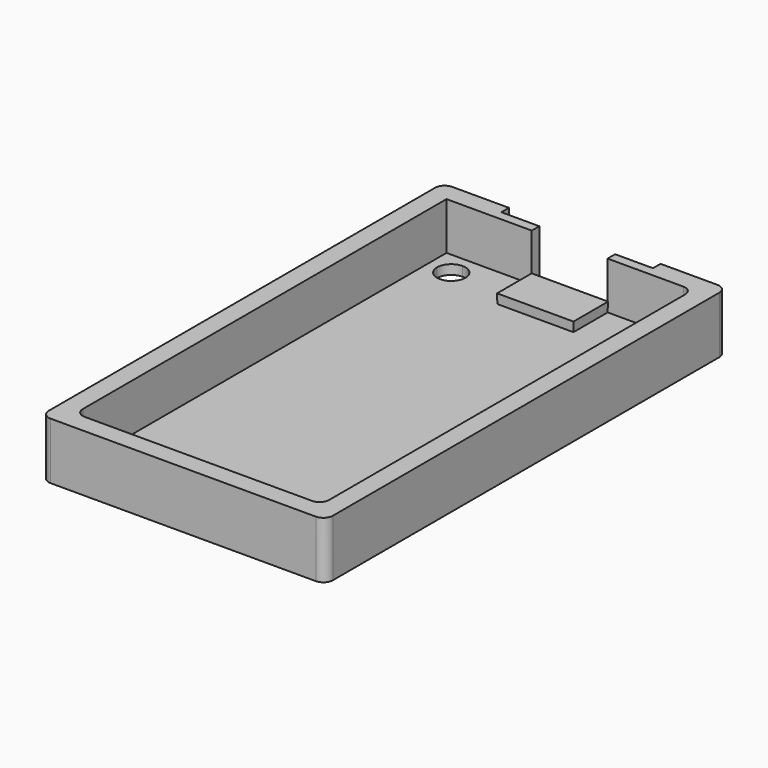
from build123d import *

# Parameters (mm, degrees)
F0_W     = 4
F0_H     = 1
F1_DEPTH = 1
F2_DEPTH = 6
F3_DEPTH = 2
F3_TAPER = -1


with BuildPart() as f1:
    # F0 (on Top) → F1 (new body)
    with BuildSketch(Plane.XY):
        with BuildLine():
            Line((-13, 24.5), (-12, 24.5))
            Line((-12, 24.5), (-10.5, 24.5))
            Line((-10.5, 24.5), (-8, 24.5))
            Line((-8, 24.5), (-8, 25.5))
            Line((-8, 25.5), (-8, 26.5))
            Line((-8, 26.5), (-14, 26.5))
            ThreePointArc((-14, 26.5), (-14.7071067812, 26.2071067812), (-15, 25.5))
            Line((-15, 25.5), (-15, -25.5))
            ThreePointArc((-15, -25.5), (-14.7071067812, -26.2071067812), (-14, -26.5))
            Line((-14, -26.5), (14, -26.5))
            ThreePointArc((14, -26.5), (14.7071067812, -26.2071067812), (15, -25.5))
            Line((15, -25.5), (15, 25.5))
            ThreePointArc((15, 25.5), (14.7071067812, 26.2071067812), (14, 26.5))
            Line((14, 26.5), (8, 26.5))
            Line((8, 26.5), (8, 25.5))
            Line((8, 25.5), (8, 24.5))
            Line((8, 24.5), (10.5, 24.5))
            Line((10.5, 24.5), (12, 24.5))
            ThreePointArc((12, 24.5), (12.7071067812, 24.2071067812), (13, 23.5))
            Line((13, 23.5), (13, 22))
            Line((13, 22), (13, -22))
            Line((13, -22), (13, -23.5))
            ThreePointArc((13, -23.5), (12.7071067812, -24.2071067812), (12, -24.5))
            Line((12, -24.5), (10.5, -24.5))
            Line((10.5, -24.5), (-10.5, -24.5))
            Line((-10.5, -24.5), (-12, -24.5))
            ThreePointArc((-12, -24.5), (-12.7071067812, -24.2071067812), (-13, -23.5))
            Line((-13, -23.5), (-13, -22))
            Line((-13, -22), (-13, 22))
            Line((-13, 22), (-13, 23.5))
            Line((-13, 23.5), (-13, 24.5))
        make_face()
        with Locations((6, 25)):
            Rectangle(F0_W, F0_H)
        with Locations((2, 25)):
            Rectangle(F0_W, F0_H)
        with Locations((-2, 25)):
            Rectangle(F0_W, F0_H)
        with Locations((-6, 25)):
            Rectangle(F0_W, F0_H)
        Polygon((0, 24.5), (-4, 24.5), (-4, 20), (4, 20), (4, 24.5), align=None)
        with BuildLine():
            Line((-12, -22), (-13, -22))
            Line((-13, -22), (-13, -23.5))
            ThreePointArc((-13, -23.5), (-12.7071067812, -24.2071067812), (-12, -24.5))
            Line((-12, -24.5), (-10.5, -24.5))
            Line((-10.5, -24.5), (-10.5, -23.5))
            ThreePointArc((-10.5, -23.5), (-11.5606601718, -23.0606601718), (-12, -22))
        make_face()
        with BuildLine():
            Line((-8, 24.5), (-10.5, 24.5))
            Line((-10.5, 24.5), (-10.5, 23.5))
            ThreePointArc((-10.5, 23.5), (-9.4393398282, 23.0606601718), (-9, 22))
            ThreePointArc((-9, 22), (-10.5, 20.5), (-12, 22))
            Line((-12, 22), (-13, 22))
            Line((-13, 22), (-13, -22))
            Line((-13, -22), (-12, -22))
            ThreePointArc((-12, -22), (-10.5, -20.5), (-9, -22))
            ThreePointArc((-9, -22), (-9.4393398282, -23.0606601718), (-10.5, -23.5))
            Line((-10.5, -23.5), (-10.5, -24.5))
            Line((-10.5, -24.5), (10.5, -24.5))
            Line((10.5, -24.5), (10.5, -23.5))
            ThreePointArc((10.5, -23.5), (9.4393398282, -20.9393398282), (12, -22))
            Line((12, -22), (13, -22))
            Line((13, -22), (13, 22))
            Line((13, 22), (12, 22))
            ThreePointArc((12, 22), (9.4393398282, 20.9393398282), (10.5, 23.5))
            Line((10.5, 23.5), (10.5, 24.5))
            Line((10.5, 24.5), (8, 24.5))
            Line((8, 24.5), (4, 24.5))
            Line((4, 24.5), (4, 20))
            Line((4, 20), (-4, 20))
            Line((-4, 20), (-4, 24.5))
            Line((-4, 24.5), (-8, 24.5))
        make_face()
        with BuildLine():
            Line((10.5, -23.5), (10.5, -24.5))
            Line((10.5, -24.5), (12, -24.5))
            ThreePointArc((12, -24.5), (12.7071067812, -24.2071067812), (13, -23.5))
            Line((13, -23.5), (13, -22))
            Line((13, -22), (12, -22))
            ThreePointArc((12, -22), (11.5606601718, -23.0606601718), (10.5, -23.5))
        make_face()
        with BuildLine():
            Line((-8, 24.5), (-10.5, 24.5))
            Line((-10.5, 24.5), (-10.5, 23.5))
            ThreePointArc((-10.5, 23.5), (-9.4393398282, 23.0606601718), (-9, 22))
            ThreePointArc((-9, 22), (-10.5, 20.5), (-12, 22))
            Line((-12, 22), (-13, 22))
            Line((-13, 22), (-13, -22))
            Line((-13, -22), (-12, -22))
            ThreePointArc((-12, -22), (-10.5, -20.5), (-9, -22))
            ThreePointArc((-9, -22), (-9.4393398282, -23.0606601718), (-10.5, -23.5))
            Line((-10.5, -23.5), (-10.5, -24.5))
            Line((-10.5, -24.5), (10.5, -24.5))
            Line((10.5, -24.5), (10.5, -23.5))
            ThreePointArc((10.5, -23.5), (9.4393398282, -20.9393398282), (12, -22))
            Line((12, -22), (13, -22))
            Line((13, -22), (13, 22))
            Line((13, 22), (12, 22))
            ThreePointArc((12, 22), (9.4393398282, 20.9393398282), (10.5, 23.5))
            Line((10.5, 23.5), (10.5, 24.5))
            Line((10.5, 24.5), (8, 24.5))
            Line((8, 24.5), (4, 24.5))
            Line((4, 24.5), (4, 20))
            Line((4, 20), (-4, 20))
            Line((-4, 20), (-4, 24.5))
            Line((-4, 24.5), (-8, 24.5))
        make_face()
        with BuildLine():
            Line((12, 24.5), (10.5, 24.5))
            Line((10.5, 24.5), (10.5, 23.5))
            ThreePointArc((10.5, 23.5), (11.5606601718, 23.0606601718), (12, 22))
            Line((12, 22), (13, 22))
            Line((13, 22), (13, 23.5))
            ThreePointArc((13, 23.5), (12.7071067812, 24.2071067812), (12, 24.5))
        make_face()
        with BuildLine():
            Line((-10.5, 24.5), (-12, 24.5))
            ThreePointArc((-12, 24.5), (-12.7071067812, 24.2071067812), (-13, 23.5))
            Line((-13, 23.5), (-13, 22))
            Line((-13, 22), (-12, 22))
            ThreePointArc((-12, 22), (-11.5606601718, 23.0606601718), (-10.5, 23.5))
            Line((-10.5, 23.5), (-10.5, 24.5))
        make_face()
        with BuildLine():
            ThreePointArc((-13, 23.5), (-12.7071067812, 24.2071067812), (-12, 24.5))
            Line((-12, 24.5), (-13, 24.5))
            Line((-13, 24.5), (-13, 23.5))
        make_face()
    extrude(amount=F1_DEPTH)

    # F0 (on Top) → F2 (join)
    with BuildSketch(Plane.XY):
        with BuildLine():
            Line((-13, 24.5), (-12, 24.5))
            Line((-12, 24.5), (-10.5, 24.5))
            Line((-10.5, 24.5), (-8, 24.5))
            Line((-8, 24.5), (-8, 25.5))
            Line((-8, 25.5), (-8, 26.5))
            Line((-8, 26.5), (-14, 26.5))
            ThreePointArc((-14, 26.5), (-14.7071067812, 26.2071067812), (-15, 25.5))
            Line((-15, 25.5), (-15, -25.5))
            ThreePointArc((-15, -25.5), (-14.7071067812, -26.2071067812), (-14, -26.5))
            Line((-14, -26.5), (14, -26.5))
            ThreePointArc((14, -26.5), (14.7071067812, -26.2071067812), (15, -25.5))
            Line((15, -25.5), (15, 25.5))
            ThreePointArc((15, 25.5), (14.7071067812, 26.2071067812), (14, 26.5))
            Line((14, 26.5), (8, 26.5))
            Line((8, 26.5), (8, 25.5))
            Line((8, 25.5), (8, 24.5))
            Line((8, 24.5), (10.5, 24.5))
            Line((10.5, 24.5), (12, 24.5))
            ThreePointArc((12, 24.5), (12.7071067812, 24.2071067812), (13, 23.5))
            Line((13, 23.5), (13, 22))
            Line((13, 22), (13, -22))
            Line((13, -22), (13, -23.5))
            ThreePointArc((13, -23.5), (12.7071067812, -24.2071067812), (12, -24.5))
            Line((12, -24.5), (10.5, -24.5))
            Line((10.5, -24.5), (-10.5, -24.5))
            Line((-10.5, -24.5), (-12, -24.5))
            ThreePointArc((-12, -24.5), (-12.7071067812, -24.2071067812), (-13, -23.5))
            Line((-13, -23.5), (-13, -22))
            Line((-13, -22), (-13, 22))
            Line((-13, 22), (-13, 23.5))
            Line((-13, 23.5), (-13, 24.5))
        make_face()
        with Locations((6, 25)):
            Rectangle(F0_W, F0_H)
        with Locations((-6, 25)):
            Rectangle(F0_W, F0_H)
    extrude(amount=F2_DEPTH)

    # F0 (on Top) → F3 (join)
    with BuildSketch(Plane.XY):
        Polygon((0, 24.5), (-4, 24.5), (-4, 20), (4, 20), (4, 24.5), align=None)
    extrude(amount=F3_DEPTH, taper=F3_TAPER)


solid = f1.part
